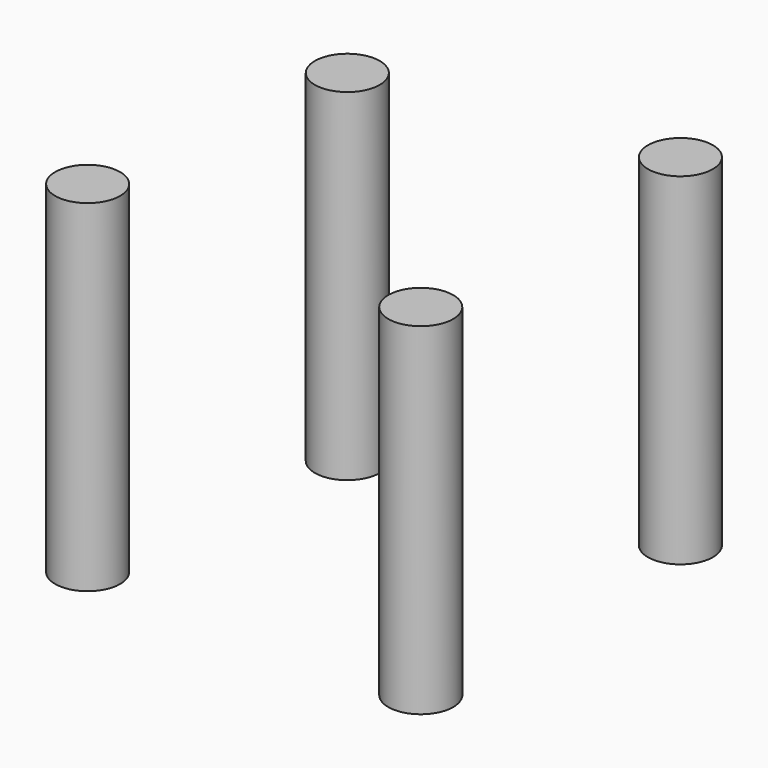
from build123d import *

# Parameters (mm, degrees)
CYLINDER009_R     = 1.9
CYLINDER009_DEPTH = 20
CYLINDER011_R     = 1.9
CYLINDER011_DEPTH = 20
CYLINDER010_R     = 1.9
CYLINDER010_DEPTH = 20
CYLINDER008_R     = 1.9
CYLINDER008_DEPTH = 20


with BuildPart() as cylinder009:
    # Cylinder009 → Cylinder009 (new body)
    with BuildSketch(Plane(origin=(29.5, 10.5, -5), x_dir=(1, 0, 0), z_dir=(0, 0, 1))):
        Circle(CYLINDER009_R)
    extrude(amount=CYLINDER009_DEPTH)


with BuildPart() as cylinder011:
    # Cylinder011 → Cylinder011 (new body)
    with BuildSketch(Plane(origin=(10, 29.5, -7), x_dir=(1, 0, 0), z_dir=(0, 0, 1))):
        Circle(CYLINDER011_R)
    extrude(amount=CYLINDER011_DEPTH)


with BuildPart() as cylinder010:
    # Cylinder010 → Cylinder010 (new body)
    with BuildSketch(Plane(origin=(29.5, 29.5, -5), x_dir=(1, 0, 0), z_dir=(0, 0, 1))):
        Circle(CYLINDER010_R)
    extrude(amount=CYLINDER010_DEPTH)


with BuildPart() as m2_screw_holes:
    # Cylinder008 → Cylinder008 (new body)
    with BuildSketch(Plane(origin=(10, 10.5, -5), x_dir=(1, 0, 0), z_dir=(0, 0, 1))):
        Circle(CYLINDER008_R)
    extrude(amount=CYLINDER008_DEPTH)

    # Fusion021: union Cylinder009, Cylinder011, Cylinder010
    add(cylinder009.part)
    add(cylinder011.part)
    add(cylinder010.part)


solid = m2_screw_holes.part
